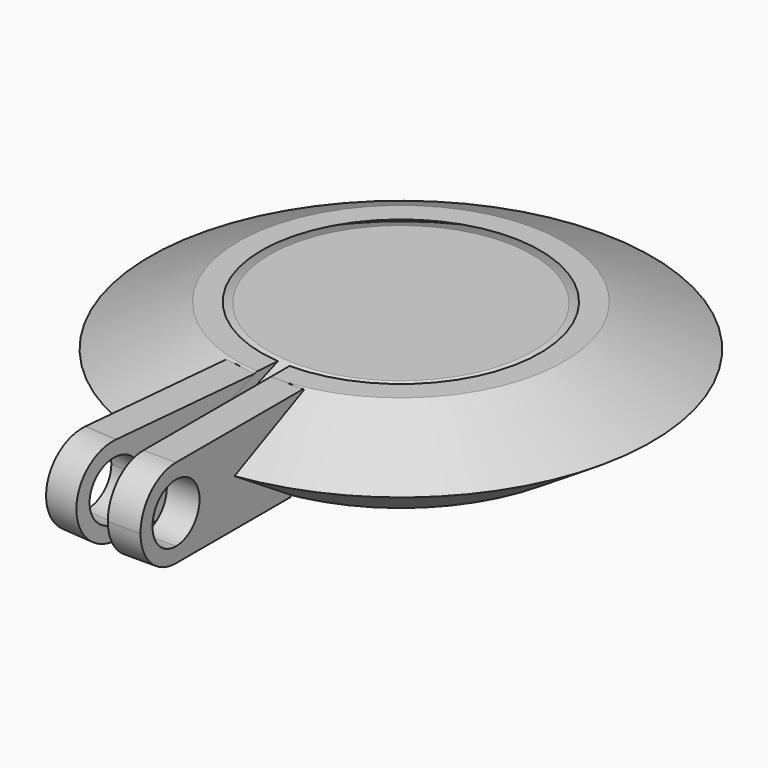
from build123d import *

# Parameters (mm, degrees)
F4_ANGLE = 355
F6_DEPTH = 2
F9_DEPTH = 2


with BuildPart() as f1:
    # F0 (on Front) → F1 (revolve)
    with BuildSketch(Plane.XZ):
        Polygon((-8.5256528109, 0), (0, 0), (0, 5.3492360748), (-8.0402912572, 5.3492360748), (-13.1365936249, 2.9224255122), align=None)
    revolve(axis=Axis((0, 0, 2.6746180374), (0, 0, -1)))


with BuildPart() as f4:
    # F2 (on Right) → F4 (revolve)
    with BuildSketch(Plane.YZ):
        Polygon((-10.9227513894, 0), (-9.4781313092, 0), (-13.8119934127, 2.8779460117), (-8.5150506347, 5.4301088676), (-9.9596716464, 5.4301088676), (-15.3529215604, 2.8779460117), align=None)
    revolve(axis=Axis((0, 0, 3.4475456923), (0, 0, 1)), revolution_arc=F4_ANGLE)

    # F5 (on face) → F6 (join)
    with BuildSketch(Plane(origin=(0, 0, 0), x_dir=(0, -1, 0), z_dir=(-1, 0, 0))):
        with BuildLine():
            Line((19.6974463761, 5.4301088676), (9.9596716464, 5.4301088676))
            Line((9.9596716464, 5.4301088676), (9.9596716464, 5.1421355456))
            Line((9.9596716464, 5.1421355456), (14.8787824938, 2.8143420651))
            Line((14.8787824938, 2.8143420651), (18.0616624244, 4.8820180795))
            ThreePointArc((18.0616624244, 4.8820180795), (18.8348641121, 5.2894422088), (19.6974463761, 5.4301088676))
        make_face()
        with BuildLine():
            ThreePointArc((22.4125008099, 2.7150544338), (21.6172797775, 4.6348878352), (19.6974463761, 5.4301088676))
            Line((19.6974463761, 5.4301088676), (19.6974463761, 4.5150544338))
            ThreePointArc((19.6974463761, 4.5150544338), (20.9702385822, 3.9878466399), (21.4974463761, 2.7150544338))
            ThreePointArc((21.4974463761, 2.7150544338), (20.9702385822, 1.4422622277), (19.6974463761, 0.9150544338))
            Line((19.6974463761, 0.9150544338), (19.6974463761, 0))
            ThreePointArc((19.6974463761, 0), (21.6172797775, 0.7952210324), (22.4125008099, 2.7150544338))
        make_face()
        with BuildLine():
            Line((19.6974463761, 4.5150544338), (19.6974463761, 5.4301088676))
            ThreePointArc((19.6974463761, 5.4301088676), (18.8348641121, 5.2894422088), (18.0616624244, 4.8820180795))
            ThreePointArc((18.0616624244, 4.8820180795), (17.0857219121, 3.456954631), (17.1667503073, 1.7316430317))
            ThreePointArc((17.1667503073, 1.7316430317), (18.1642299708, 0.4743473951), (19.6974463761, 0))
            Line((19.6974463761, 0), (19.6974463761, 0.9150544338))
            ThreePointArc((19.6974463761, 0.9150544338), (17.8974463761, 2.7150544338), (19.6974463761, 4.5150544338))
        make_face()
        with BuildLine():
            ThreePointArc((17.1667503073, 1.7316430317), (17.0857219121, 3.456954631), (18.0616624244, 4.8820180795))
            Line((18.0616624244, 4.8820180795), (14.8787824938, 2.8143420651))
            Line((14.8787824938, 2.8143420651), (17.1667503073, 1.7316430317))
        make_face()
        with BuildLine():
            Line((17.1667503073, 1.7316430317), (14.8787824938, 2.8143420651))
            Line((14.8787824938, 2.8143420651), (10.9227513894, 0.2444082929))
            Line((10.9227513894, 0.2444082929), (10.9227513894, 0))
            Line((10.9227513894, 0), (19.6974463761, 0))
            ThreePointArc((19.6974463761, 0), (18.1642299708, 0.4743473951), (17.1667503073, 1.7316430317))
        make_face()
    extrude(amount=-F6_DEPTH)

    # F8 (on offset) → F9 (join)
    with BuildSketch(Plane(origin=(0, 0, 0), x_dir=(0.0871557427, 0.9961946981, 0), z_dir=(0.9961946981, -0.0871557427, 0))):
        with BuildLine():
            Line((-9.9978353828, 5.3655281663), (-19.741717726, 5.4301088676))
            ThreePointArc((-19.741717726, 5.4301088676), (-18.2085013207, 4.9557614724), (-17.2110216572, 3.6984658359))
            Line((-17.2110216572, 3.6984658359), (-14.5926705645, 2.4594247181))
            Line((-14.5926705645, 2.4594247181), (-9.9978353828, 4.9591703566))
            Line((-9.9978353828, 4.9591703566), (-9.9978353828, 5.3655281663))
        make_face()
        with BuildLine():
            Line((-19.741717726, 0), (-10.0039429963, 0))
            Line((-10.0039429963, 0), (-10.0039429963, 0.287973322))
            Line((-10.0039429963, 0.287973322), (-14.5926705645, 2.4594247181))
            Line((-14.5926705645, 2.4594247181), (-18.1059337743, 0.5480907881))
            ThreePointArc((-18.1059337743, 0.5480907881), (-18.879135462, 0.1406666587), (-19.741717726, 0))
        make_face()
        with BuildLine():
            ThreePointArc((-19.741717726, 5.4301088676), (-22.4567721598, 2.7150544338), (-19.741717726, 0))
            Line((-19.741717726, 0), (-19.741717726, 0.9150544338))
            ThreePointArc((-19.741717726, 0.9150544338), (-21.541717726, 2.7150544338), (-19.741717726, 4.5150544338))
            Line((-19.741717726, 4.5150544338), (-19.741717726, 5.4301088676))
        make_face()
        with BuildLine():
            Line((-19.741717726, 0.9150544338), (-19.741717726, 0))
            ThreePointArc((-19.741717726, 0), (-18.879135462, 0.1406666587), (-18.1059337743, 0.5480907881))
            ThreePointArc((-18.1059337743, 0.5480907881), (-17.3114129047, 1.5046251488), (-17.0266632922, 2.7150544338))
            ThreePointArc((-17.0266632922, 2.7150544338), (-17.0731508671, 3.2153258583), (-17.2110216572, 3.6984658359))
            ThreePointArc((-17.2110216572, 3.6984658359), (-18.2085013207, 4.9557614724), (-19.741717726, 5.4301088676))
            Line((-19.741717726, 5.4301088676), (-19.741717726, 4.5150544338))
            ThreePointArc((-19.741717726, 4.5150544338), (-18.4689255199, 3.9878466399), (-17.941717726, 2.7150544338))
            ThreePointArc((-17.941717726, 2.7150544338), (-18.4689255199, 1.4422622277), (-19.741717726, 0.9150544338))
        make_face()
        with BuildLine():
            ThreePointArc((-17.0266632922, 2.7150544338), (-17.3114129047, 1.5046251488), (-18.1059337743, 0.5480907881))
            Line((-18.1059337743, 0.5480907881), (-14.5926705645, 2.4594247181))
            Line((-14.5926705645, 2.4594247181), (-17.2110216572, 3.6984658359))
            ThreePointArc((-17.2110216572, 3.6984658359), (-17.0731508671, 3.2153258583), (-17.0266632922, 2.7150544338))
        make_face()
    extrude(amount=-F9_DEPTH)


solid = Compound([f1.part, f4.part])
